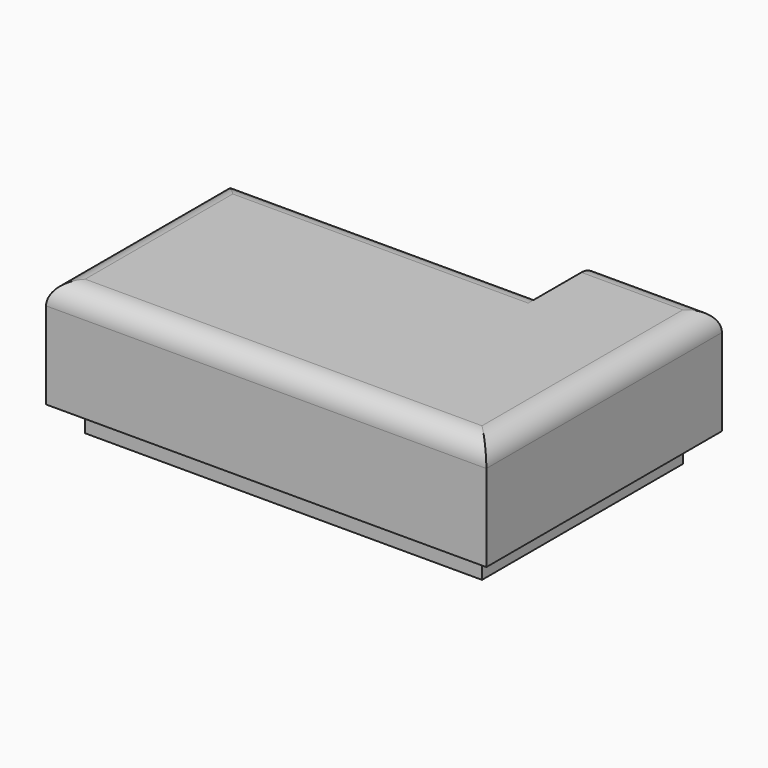
from build123d import *

# Parameters (mm, degrees)
F0_W     = 74.2121748626
F0_H     = 53.3399991691
F1_DEPTH = 25.4
F2_R     = 5.08
F3_R     = 13.6810571513
F4_DEPTH = 31.75


with BuildPart() as f1:
    # F0 (on Top) → F1 (new body)
    with BuildSketch(Plane.XY):
        with Locations((3.6443490535, 1.9878260791)):
            Rectangle(F0_W, F0_H)
        Polygon((40.7504364848, 44.229131192), (40.7504364848, 28.6578256637), (40.7504364848, -24.6821735054), (69.5739164948, -24.6821735054), (69.5739164948, 44.229131192), align=None)
    extrude(amount=F1_DEPTH)

    # F2
    f2_edges = [f1.edges().sort_by_distance(p)[0] for p in [
        (-33.461738, 1.987826, 25.4),
        (3.644349, 28.657826, 25.4),
        (55.162176, 44.229131, 25.4),
        (18.056089, -24.682174, 25.4),
        (69.573916, 9.773479, 25.4),
    ]]
    fillet(f2_edges, radius=F2_R)

    # F3 (on face) → F4 (join)
    with BuildSketch(Plane.XY.offset(25.4)):
        Polygon((64.4939164948, 39.149131192), (40.7504364848, 39.149131192), (40.7504364848, 28.6578256637), (40.7504364848, 23.5778256637), (-28.3817383778, 23.5778256637), (-28.3817383778, -19.6021735054), (64.4939164948, -19.6021735054), align=None)
        with Locations((20.3587319702, 0)):
            Circle(F3_R, mode=Mode.SUBTRACT)
        with Locations((20.3587319702, 0)):
            Circle(F3_R)
    extrude(amount=-F4_DEPTH)


solid = f1.part
